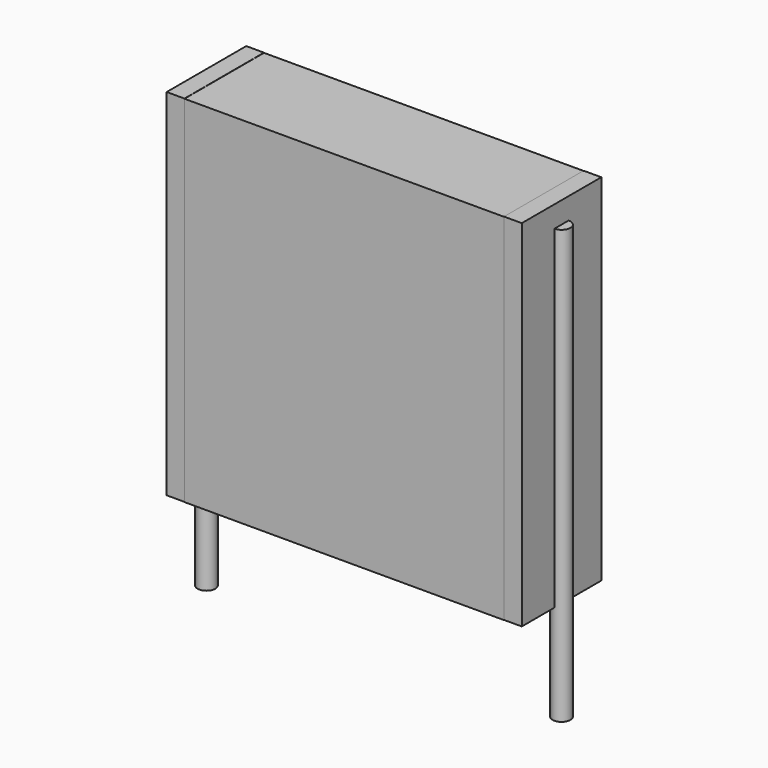
from build123d import *

# Parameters (mm, degrees)
SKETCH_W          = 9
SKETCH_H          = 2.8
PAD_DEPTH         = 10
SKETCH001_R       = 0.25
PAD001_DEPTH      = 9
PAD001_DEPTH_BACK = 3.2
SKETCH002_W       = 0.5
SKETCH002_H       = 2.8
PAD002_DEPTH      = 10


with BuildPart() as pad:
    # Sketch → Pad (new body)
    with BuildSketch(Plane.XY.offset(0.1)):
        with Locations((5, 0)):
            Rectangle(SKETCH_W, SKETCH_H)
    extrude(amount=PAD_DEPTH)


with BuildPart() as pad001:
    # Sketch001 → Pad001 (new body, two sides)
    with BuildSketch(Plane.XY.offset(0.5)) as pad001_sk:
        Circle(SKETCH001_R)
        with Locations((10, 0)):
            Circle(SKETCH001_R)
    extrude(amount=PAD001_DEPTH)
    extrude(pad001_sk.sketch, amount=-PAD001_DEPTH_BACK)


with BuildPart() as pad002:
    # Sketch002 → Pad002 (new body)
    with BuildSketch(Plane.XY.offset(0.105)):
        with Locations((0.25, 0)):
            Rectangle(SKETCH002_W, SKETCH002_H)
        with Locations((9.75, 0)):
            Rectangle(SKETCH002_W, SKETCH002_H)
    extrude(amount=PAD002_DEPTH)


solid = Compound([pad.part, pad001.part, pad002.part])
